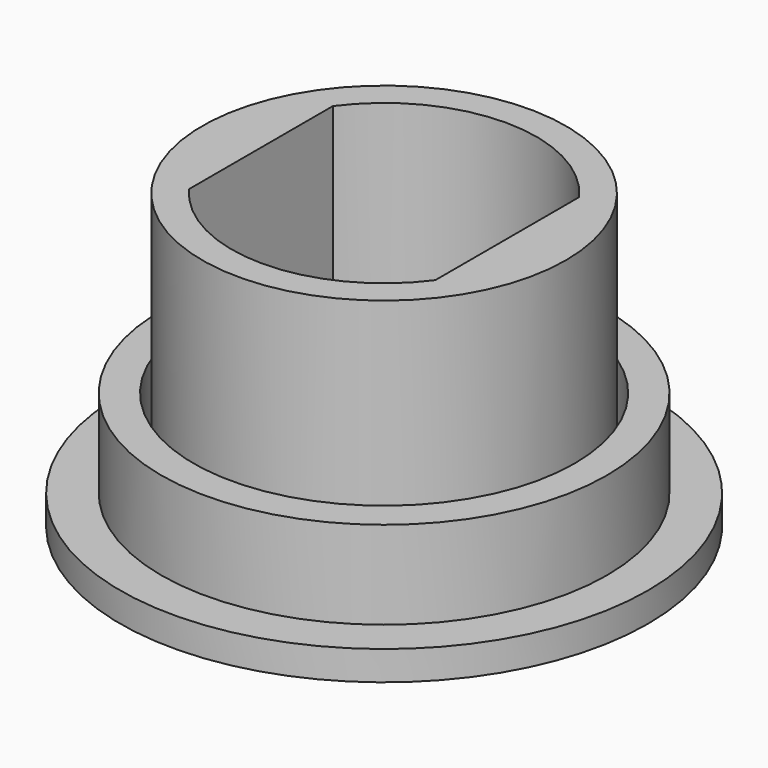
from build123d import *

# Parameters (mm, degrees)
F0_R     = 4.5
F0_R_2   = 3.8
F0_R_3   = 3.25
F1_DEPTH = 0.5
F2_DEPTH = 2
F3_R     = 3.1
F4_DEPTH = 5
F5_DEPTH = 0.5


with BuildPart() as f1:
    # F0 (on Top) → F1 (new body)
    with BuildSketch(Plane.XY):
        Circle(F0_R)
        Circle(F0_R_2, mode=Mode.SUBTRACT)
        Circle(F0_R_2)
        Circle(F0_R_3, mode=Mode.SUBTRACT)
    extrude(amount=F1_DEPTH)

    # F0 (on Top) → F2 (join)
    with BuildSketch(Plane.XY):
        Circle(F0_R_2)
        Circle(F0_R_3, mode=Mode.SUBTRACT)
    extrude(amount=F2_DEPTH)



with BuildPart() as f4:
    # F3 (on face) → F4 (new body)
    with BuildSketch(Plane.XY):
        Circle(F3_R)
        with BuildLine():
            ThreePointArc((2.1, 1.5329709717), (2.4718414189, 0.8062257748), (2.6, 0))
            ThreePointArc((2.6, 0), (2.4718414189, -0.8062257748), (2.1, -1.5329709717))
            ThreePointArc((2.1, -1.5329709717), (0, -2.6), (-2.1, -1.5329709717))
            ThreePointArc((-2.1, -1.5329709717), (-2.6, 0), (-2.1, 1.5329709717))
            ThreePointArc((-2.1, 1.5329709717), (0, 2.6), (2.1, 1.5329709717))
        make_face(mode=Mode.SUBTRACT)
        with BuildLine():
            ThreePointArc((2.1, -1.5329709717), (2.4718414189, -0.8062257748), (2.6, 0))
            ThreePointArc((2.6, 0), (2.4718414189, 0.8062257748), (2.1, 1.5329709717))
            Line((2.1, 1.5329709717), (2.1, -1.5329709717))
        make_face()
        with BuildLine():
            Line((-2.1, -1.5329709717), (-2.1, 1.5329709717))
            ThreePointArc((-2.1, 1.5329709717), (-2.6, 0), (-2.1, -1.5329709717))
        make_face()
    extrude(amount=F4_DEPTH)


with BuildPart() as f1_1:
    add(f1.part)

    add(f4.part)  # F5 merges F4
    # F0 (on Top) → F5 (join)
    with BuildSketch(Plane.XY):
        Circle(F0_R_3)
    extrude(amount=F5_DEPTH)


solid = f1_1.part
